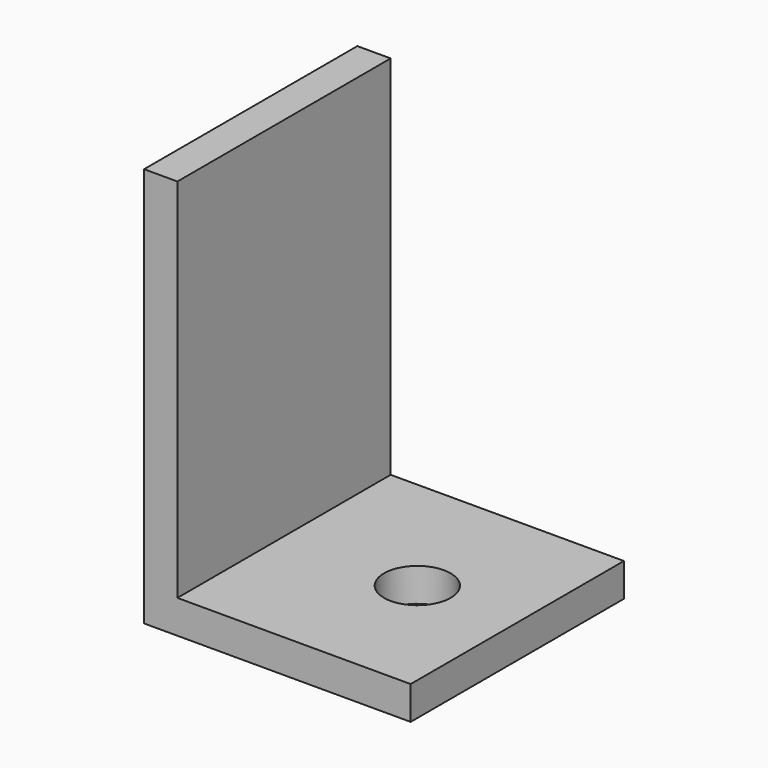
from build123d import *

# Parameters (mm, degrees)
F1_DEPTH = 20
F3_D     = 10


with BuildPart() as f1:
    # F0 (on Front) → F1 (new body, symmetric)
    with BuildSketch(Plane.XZ):
        Polygon((0, 60), (0, 0), (40, 0), (40, 5), (5, 5), (5, 60), align=None)
    extrude(amount=F1_DEPTH, both=True)

    # F3 (through all)
    with Locations(Plane.XY.offset(5)):
        with Locations((25, 0)):
            Hole(F3_D / 2)


solid = f1.part
